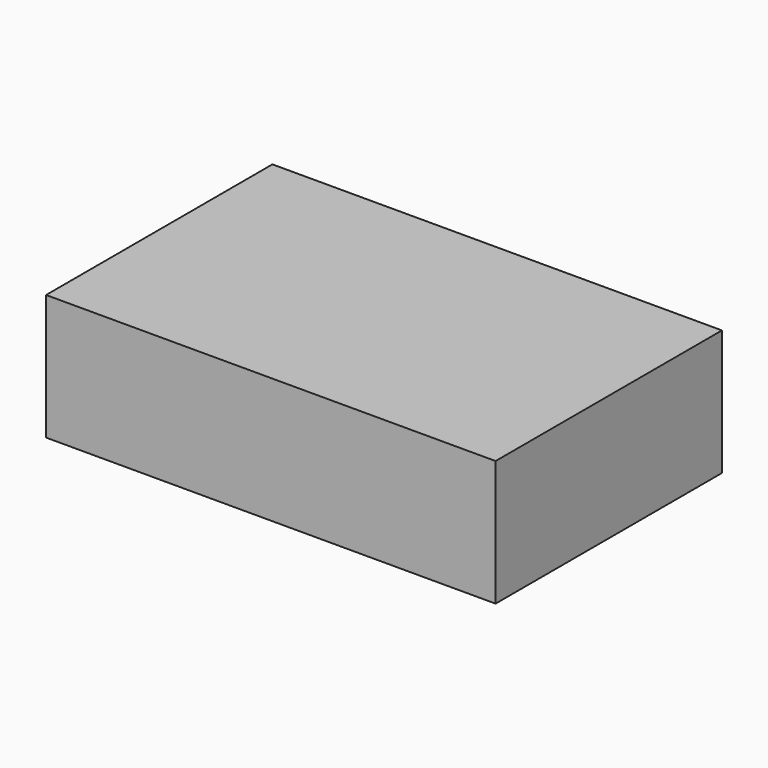
from build123d import *

# Parameters (mm, degrees)
F0_W     = 89.4999849609
F0_H     = 56.3333243099
F0_W_2   = 19.1234880393
F0_H_2   = 10.8065714894
F1_DEPTH = 25
F2_DEPTH = 11.8


with BuildPart() as f1:
    # F0 (on Top) → F1 (new body)
    with BuildSketch(Plane.XY):
        with Locations((0.2782877584, -0.6192643195)):
            Rectangle(F0_W, F0_H)
        with Locations((-25.9099607023, 13.1441120907)):
            Rectangle(F0_W_2, F0_H_2, mode=Mode.SUBTRACT)
        with Locations((-25.9099607023, 13.1441120907)):
            Rectangle(F0_W_2, F0_H_2)
    extrude(amount=F1_DEPTH)

    # F0 (on Top) → F2 (cut)
    with BuildSketch(Plane.XY):
        with Locations((-25.9099607023, 13.1441120907)):
            Rectangle(F0_W_2, F0_H_2)
    extrude(amount=F2_DEPTH, mode=Mode.SUBTRACT)


solid = f1.part
